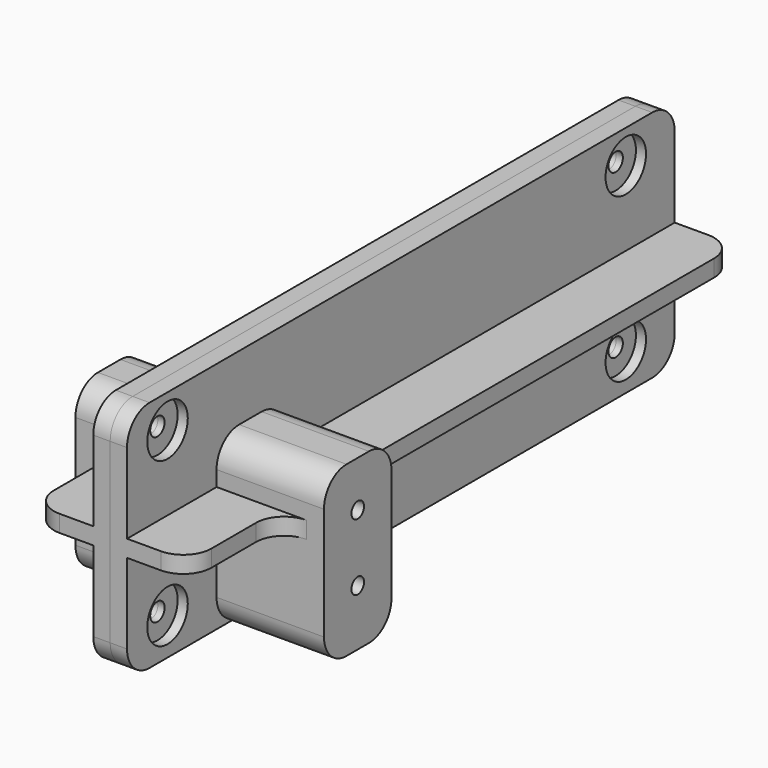
from build123d import *

# Parameters (mm, degrees)
F0_R      = 1.6
F0_W      = 82
F0_H      = 15
F0_R_2    = 1.4
F1_DEPTH  = 3
F2_DEPTH  = 22.1
F3_R      = 5
F4_DEPTH  = 20
F5_DEPTH  = 25
F7_DEPTH  = 121.72
F8_R      = 5
F9_R      = 4.5
F9_R_2    = 1.6
F10_DEPTH = 1.8
F11_DEPTH = 14.001


with BuildPart() as f1:
    # F0 (on Right) → F1 (new body)
    with BuildSketch(Plane.YZ):
        Polygon((83.36, 20.765), (-83.36, 20.765), (-83.36, -20.765), (-43.46, -20.765), (-43.46, 9.235), (-28.46, 9.235), (-28.46, -5.765), (53.54, -5.765), (53.54, -20.765), (83.36, -20.765), align=None)
        with Locations((-54.36, -14.165)):
            Circle(F0_R, mode=Mode.SUBTRACT)
        with Locations((-54.36, 14.835)):
            Circle(F0_R, mode=Mode.SUBTRACT)
        with Locations((47.49, 14.835)):
            Circle(F0_R, mode=Mode.SUBTRACT)
        with Locations((12.54, -13.265)):
            Rectangle(F0_W, F0_H)
        with Locations((47.49, -14.165)):
            Circle(F0_R, mode=Mode.SUBTRACT)
        with Locations((43.29, -10.765)):
            Circle(F0_R_2, mode=Mode.SUBTRACT)
        with Locations((43.29, -10.765)):
            Circle(F0_R_2)
    extrude(amount=F1_DEPTH)

    # F0 (on Right) → F2 (join)
    with BuildSketch(Plane.YZ):
        Polygon((-43.46, 9.235), (-43.46, -20.765), (-28.46, -20.765), (-28.46, -5.765), (-28.46, 9.235), align=None)
        with Locations((-35.96, -10.765)):
            Circle(F0_R_2, mode=Mode.SUBTRACT)
        with Locations((-35.96, 1.075)):
            Circle(F0_R_2, mode=Mode.SUBTRACT)
    extrude(amount=F2_DEPTH)

    # F3
    f3_edges = [f1.edges().sort_by_distance(p)[0] for p in [
        (12.55, -43.46, 9.235),
        (12.55, -28.46, 9.235),
        (12.55, -28.46, -20.765),
        (12.55, -43.46, -20.765),
    ]]
    fillet(f3_edges, radius=F3_R)

    # F4 (cut): a face of the model
    f4_faces = [f1.faces().sort_by_distance(p)[0] for p in [
        (1.5, -83.36, 0),
    ]]
    extrude(f4_faces, amount=-F4_DEPTH, mode=Mode.SUBTRACT)

    # F5 (cut): a face of the model
    f5_faces = [f1.faces().sort_by_distance(p)[0] for p in [
        (1.5, 83.36, 0),
    ]]
    extrude(f5_faces, amount=-F5_DEPTH, mode=Mode.SUBTRACT)

    # F6 (on face) → F7 (join, through all)
    with BuildSketch(Plane.XZ.offset(63.36)):
        Polygon((3, 1.5), (3, 0), (3, -1.5), (14, -1.5), (14, 1.5), align=None)
    extrude(amount=-F7_DEPTH)

    # F8
    f8_edges = [f1.edges().sort_by_distance(p)[0] for p in [
        (1.5, -63.36, -20.765),
        (1.5, 58.36, -20.765),
        (14, 58.36, 0),
        (14, -28.46, 0),
        (14, -43.46, 0),
        (14, -63.36, 0),
        (1.5, -63.36, 20.765),
        (1.5, 58.36, 20.765),
    ]]
    fillet(f8_edges, radius=F8_R)

    # F9 (on face) → F10 (cut)
    with BuildSketch(Plane.YZ.offset(3)):
        with Locations((-54.36, -14.165)):
            Circle(F9_R)
        with Locations((47.49, -14.165)):
            Circle(F9_R)
        with Locations((47.49, -14.165)):
            Circle(F9_R_2, mode=Mode.SUBTRACT)
        with Locations((-54.36, 14.835)):
            Circle(F9_R)
        with Locations((47.49, 14.835)):
            Circle(F9_R)
    extrude(amount=-F10_DEPTH, mode=Mode.SUBTRACT)

    # F11 (cut, through all): a face of the model
    f11_faces = [f1.faces().sort_by_distance(p)[0] for p in [
        (14, -35.96, 0.7026954341),
    ]]
    extrude(f11_faces, amount=-F11_DEPTH, mode=Mode.SUBTRACT)


with BuildPart() as f12_1:
    # F12: instance of F1
    add(f1.part.mirror(Plane.YZ))


solid = Compound([f1.part, f12_1.part])
